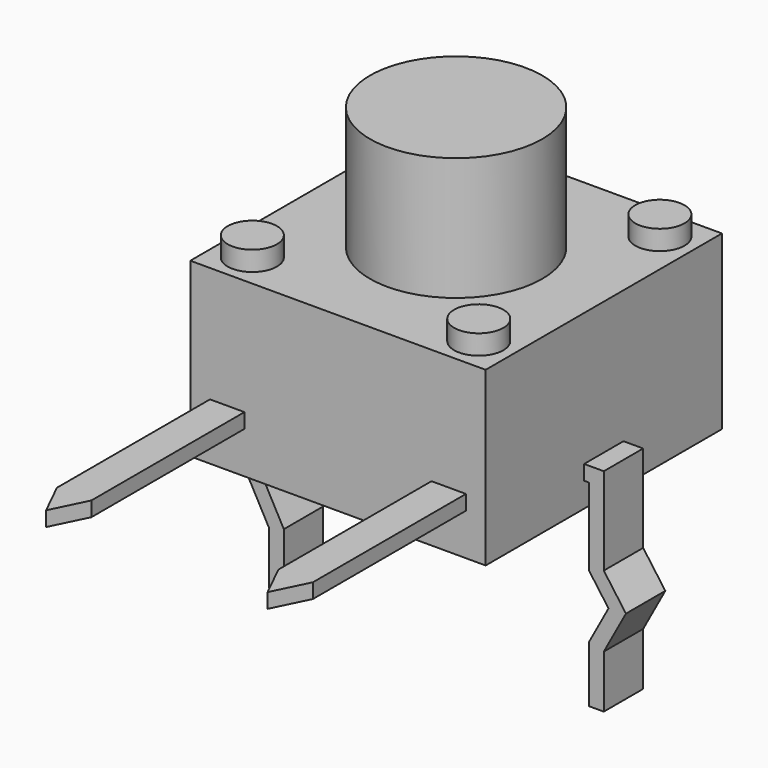
from build123d import *

# Parameters (mm, degrees)
F0_W      = 6
F0_H      = 3.5
F1_DEPTH  = 3.3
F2_W      = 2.95
F2_H      = 1.45
F3_DEPTH  = 1
F5_DEPTH  = 0.5
F6_R      = 0.2
F7_W      = 6
F7_H      = 6
F8_DEPTH  = 3.5
F9_R      = 1.75
F10_DEPTH = 2.5
F11_R     = 0.5
F12_DEPTH = 0.4
F15_DEPTH = 0.15


with BuildPart() as f1:
    # F0 (on Top) → F1 (new body)
    with BuildSketch(Plane.XY):
        Rectangle(F0_W, F0_H)
    extrude(amount=F1_DEPTH)

    # F2 (on face) → F3 (join)
    with BuildSketch(Plane.XY.offset(3.3)):
        Rectangle(F2_W, F2_H)
    extrude(amount=F3_DEPTH)

    # F4 (on Front) → F5 (join, symmetric)
    with BuildSketch(Plane.XZ):
        Polygon((-2.8612716207, 0.5), (-2.8612716207, 0.8), (-3.4, 0.8), (-3.4, -0.9775243754), (-3.85, -1.6), (-3.4, -2.4267251601), (-3.4, -3.5), (-3.1, -3.5), (-3.1, -2.3503671472), (-3.4961440499, -1.6225843626), (-3.1, -1.0746065516), (-3.1, 0.5), align=None)
        Polygon((2.8612716207, 0.8), (2.8612716207, 0.5), (3.1, 0.5), (3.1, -1.0746065516), (3.4961440499, -1.6225843626), (3.1, -2.3503671472), (3.1, -3.5), (3.4, -3.5), (3.4, -2.4267251601), (3.85, -1.6), (3.4, -0.9775243754), (3.4, 0.8), align=None)
    extrude(amount=F5_DEPTH, both=True)

    # F6
    f6_edges = [f1.edges().sort_by_distance(p)[0] for p in [
        (0, 0.725, 4.3),
        (-1.475, 0, 4.3),
        (0, -0.725, 4.3),
        (1.475, 0, 4.3),
        (-1.475, -0.725, 3.8),
        (1.475, -0.725, 3.8),
        (1.475, 0.725, 3.8),
        (-1.475, 0.725, 3.8),
    ]]
    fillet(f6_edges, radius=F6_R)


with BuildPart() as f8:
    # F7 (on Top) → F8 (new body)
    with BuildSketch(Plane.XY):
        Rectangle(F7_W, F7_H)
    extrude(amount=F8_DEPTH)

    # F9 (on face) → F10 (join)
    with BuildSketch(Plane.XY.offset(3.5)):
        Circle(F9_R)
    extrude(amount=F10_DEPTH)

    # F11 (on face) → F12 (join)
    with BuildSketch(Plane.XY.offset(3.5)):
        with Locations((-2.3, 2.3)):
            Circle(F11_R)
        with Locations((-2.3, -2.3)):
            Circle(F11_R)
        with Locations((2.3, 2.3)):
            Circle(F11_R)
        with Locations((2.3, -2.3)):
            Circle(F11_R)
    extrude(amount=F12_DEPTH)

    # F14 (on offset) → F15 (join, symmetric)
    with BuildSketch(Plane.XY.offset(1)):
        Polygon((-1.9, -2.9941034311), (-2.6, -2.9941034311), (-2.6, -6.8871881813), (-2.25, -7.6), (-1.9, -6.8871881813), align=None)
        Polygon((2.6, -6.8871881813), (2.6, -2.9941034311), (1.9, -2.9941034311), (1.9, -6.8871881813), (2.25, -7.6), align=None)
    extrude(amount=F15_DEPTH, both=True)


solid = Compound([f1.part, f8.part])
